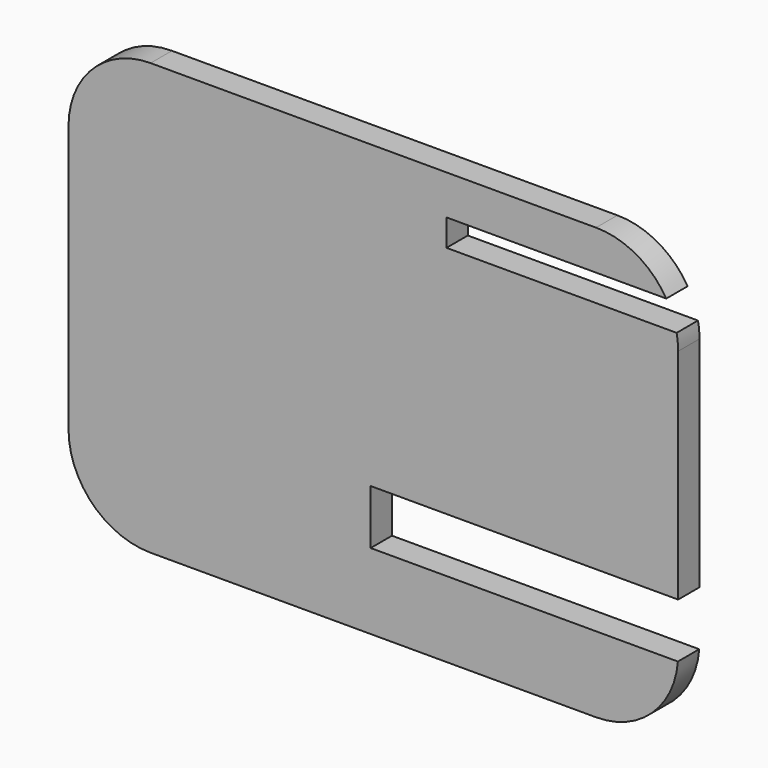
from build123d import *

# Parameters (mm, degrees)
F1_DEPTH = 13
F3_DEPTH = 25
F5_DEPTH = 25


with BuildPart() as f1:
    # F0 (on Front) → F1 (new body)
    with BuildSketch(Plane.XZ):
        with BuildLine():
            Line((109.81556, 142.312214), (-107.18444, 142.312214))
            ThreePointArc((-107.18444, 142.312214), (-135.468711, 130.596485), (-147.18444, 102.312214))
            Line((-147.18444, 102.312214), (-147.18444, -27.687786))
            ThreePointArc((-147.18444, -27.687786), (-135.468711, -55.972058), (-107.18444, -67.687786))
            Line((-107.18444, -67.687786), (109.81556, -67.687786))
            ThreePointArc((109.81556, -67.687786), (138.099831, -55.972058), (149.81556, -27.687786))
            Line((149.81556, -27.687786), (149.81556, 102.312214))
            ThreePointArc((149.81556, 102.312214), (138.099831, 130.596485), (109.81556, 142.312214))
        make_face()
    extrude(amount=F1_DEPTH)

    # F2 (on face) → F3 (cut)
    with BuildSketch(Plane.XZ.offset(13)):
        with BuildLine():
            Line((149.81556, -27.687786), (149.81556, -4.202998))
            Line((149.81556, -4.202998), (0, -4.202998))
            Line((0, -4.202998), (0, -30.806687))
            Line((0, -30.806687), (149.693781, -30.806687))
            ThreePointArc((149.693781, -30.806687), (149.785104, -29.248425), (149.81556, -27.687786))
        make_face()
    extrude(amount=-F3_DEPTH, mode=Mode.SUBTRACT)

    # F4 (on face) → F5 (cut)
    with BuildSketch(Plane.XZ.offset(13)):
        with BuildLine():
            Line((36.957689, 109.959573), (149.077729, 109.959573))
            ThreePointArc((149.077729, 109.959573), (147.134331, 116.710454), (144.039855, 123.017229))
            Line((144.039855, 123.017229), (36.957689, 123.017229))
            Line((36.957689, 123.017229), (36.957689, 109.959573))
        make_face()
    extrude(amount=-F5_DEPTH, mode=Mode.SUBTRACT)


solid = f1.part
